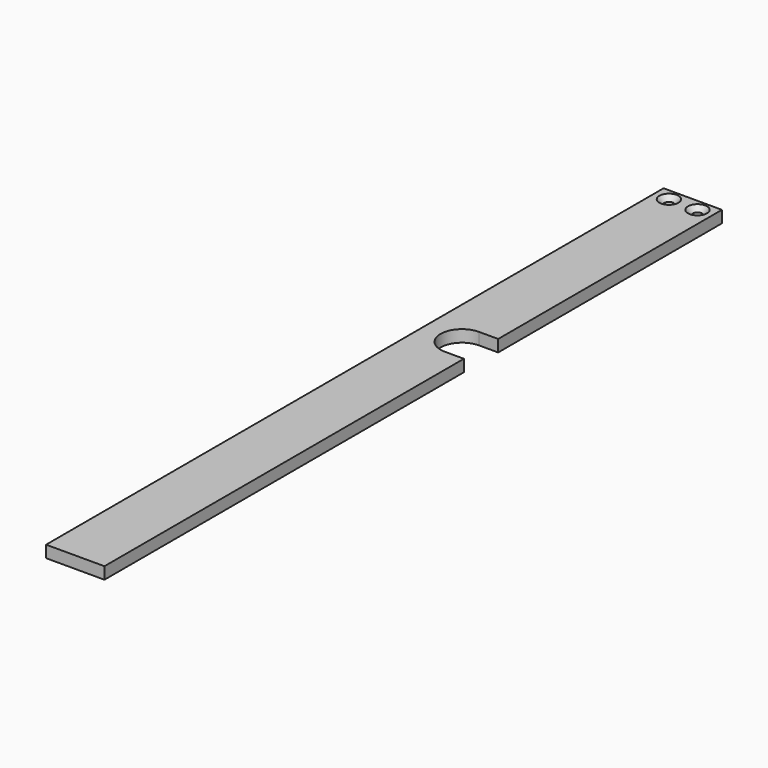
from build123d import *

# Parameters (mm, degrees)
PAD028_DEPTH    = 5
SKETCH060_R     = 2
POCKET038_DEPTH = 5.001
CHAMFER022_SIZE = 2


with BuildPart() as part:
    # Sketch055 → Pad028 (new body)
    with BuildSketch(Plane.XY):
        with BuildLine():
            Line((98.676816, 80.800335), (98.676816, -107.8))
            Line((98.676816, -107.8), (74.176816, -107.8))
            Line((74.176816, -107.8), (74.176816, 216.2))
            Line((74.176816, 216.2), (98.676816, 216.2))
            Line((98.676816, 216.2), (98.676816, 98.800335))
            Line((90.676816, 98.800335), (98.676816, 98.800335))
            ThreePointArc((90.676816, 98.800335), (81.676816, 89.800335), (90.676816, 80.800335))
            Line((90.676816, 80.800335), (98.676816, 80.800335))
        make_face()
    extrude(amount=PAD028_DEPTH)

    # Sketch060 (on Face10 of Pad028) → Pocket038 (cut, through all)
    with BuildSketch(Plane.XY.offset(5)):
        with Locations((80.426816, 211.2)):
            Circle(SKETCH060_R)
        with Locations((92.426816, 211.2)):
            Circle(SKETCH060_R)
    extrude(amount=-POCKET038_DEPTH, mode=Mode.SUBTRACT)

    # Chamfer022
    chamfer022_edges = [part.edges().sort_by_distance(p)[0] for p in [
        (78.426816, 211.2, 5),
        (90.426816, 211.2, 5),
    ]]
    chamfer(chamfer022_edges, length=CHAMFER022_SIZE)


with BuildPart() as part_1:
    # Body021 placement: moved
    add(part.part.moved(Location((-150, 0, 15.5))))


with BuildPart() as part_2:
    # Clone005 placement: moved
    add(part_1.part.moved(Location((195.823184, 107.8, -20.5))))


solid = part_2.part
